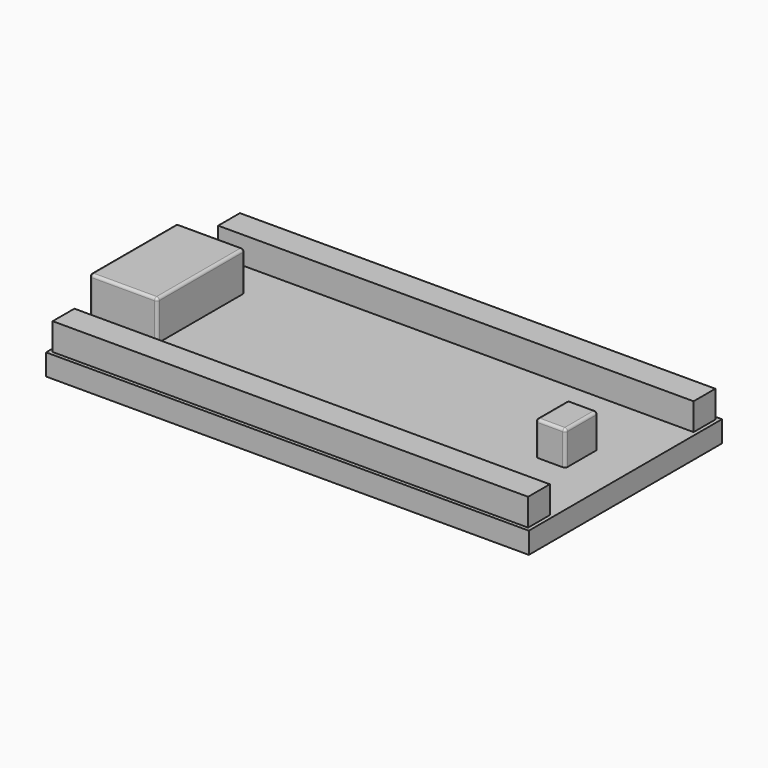
from build123d import *

# Parameters (mm, degrees)
SKETCH_W          = 35.56
SKETCH_H          = 17.78
PAD_DEPTH         = 1.57
SKETCH001_R       = 0.635
POCKET_DEPTH      = 1.571
SKETCH002_W       = 2.2
SKETCH002_H       = 3
PAD001_DEPTH      = 2.5
FILLET_R          = 0.2
FILLET001_R       = 0.2
SKETCH003_W       = 5
SKETCH003_H       = 8.06
PAD002_DEPTH      = 2.9
FILLET002_R       = 0.2
FILLET003_R       = 0.2
SKETCH006_W       = 35.02
SKETCH006_H       = 2
PAD004_DEPTH      = 2
PAD004_DEPTH_BACK = 0.5


with BuildPart() as part:
    # Sketch → Pad (new body)
    with BuildSketch(Plane.XY):
        Rectangle(SKETCH_W, SKETCH_H)
    extrude(amount=PAD_DEPTH)

    # Sketch001 → Pocket (cut, through all)
    with BuildSketch(Plane.XY.offset(1.57)):
        with Locations((-16.51, 7.62)):
            Circle(SKETCH001_R)
        with Locations((-13.970001, 7.621845)):
            Circle(SKETCH001_R)
        with Locations((-11.430001, 7.623691)):
            Circle(SKETCH001_R)
        with Locations((-8.890002, 7.625536)):
            Circle(SKETCH001_R)
        with Locations((-6.350003, 7.627382)):
            Circle(SKETCH001_R)
        with Locations((-3.810003, 7.629227)):
            Circle(SKETCH001_R)
        with Locations((-1.270004, 7.631072)):
            Circle(SKETCH001_R)
        with Locations((1.269995, 7.632918)):
            Circle(SKETCH001_R)
        with Locations((3.809995, 7.634763)):
            Circle(SKETCH001_R)
        with Locations((6.349994, 7.636609)):
            Circle(SKETCH001_R)
        with Locations((8.889993, 7.638454)):
            Circle(SKETCH001_R)
        with Locations((11.429993, 7.640299)):
            Circle(SKETCH001_R)
        with Locations((13.969992, 7.642145)):
            Circle(SKETCH001_R)
        with Locations((16.509991, 7.64399)):
            Circle(SKETCH001_R)
        with Locations((-16.498928, -7.619996)):
            Circle(SKETCH001_R)
        with Locations((-13.958928, -7.618151)):
            Circle(SKETCH001_R)
        with Locations((-11.418929, -7.616305)):
            Circle(SKETCH001_R)
        with Locations((-8.87893, -7.61446)):
            Circle(SKETCH001_R)
        with Locations((-6.33893, -7.612614)):
            Circle(SKETCH001_R)
        with Locations((-3.798931, -7.610769)):
            Circle(SKETCH001_R)
        with Locations((-1.258932, -7.608924)):
            Circle(SKETCH001_R)
        with Locations((1.281068, -7.607078)):
            Circle(SKETCH001_R)
        with Locations((3.821067, -7.605233)):
            Circle(SKETCH001_R)
        with Locations((6.361066, -7.603387)):
            Circle(SKETCH001_R)
        with Locations((8.901066, -7.601542)):
            Circle(SKETCH001_R)
        with Locations((11.441065, -7.599697)):
            Circle(SKETCH001_R)
        with Locations((13.981064, -7.597851)):
            Circle(SKETCH001_R)
        with Locations((16.521064, -7.596006)):
            Circle(SKETCH001_R)
    extrude(amount=-POCKET_DEPTH, mode=Mode.SUBTRACT)

    # Sketch002 → Pad001 (new body)
    with BuildSketch(Plane.XY.offset(1.57)):
        with Locations((13.46, 0)):
            Rectangle(SKETCH002_W, SKETCH002_H)
    extrude(amount=PAD001_DEPTH)

    # Fillet
    fillet_edges = [part.edges().sort_by_distance(p)[0] for p in [
        (14.56, 1.5, 2.82),
        (14.56, -1.5, 2.82),
        (12.36, -1.5, 2.82),
        (12.36, 1.5, 2.82),
    ]]
    fillet(fillet_edges, radius=FILLET_R)

    # Fillet001
    fillet001_edges = [part.edges().sort_by_distance(p)[0] for p in [
        (13.46, 1.5, 4.07),
    ]]
    fillet(fillet001_edges, radius=FILLET001_R)

    # Sketch003 → Pad002 (new body)
    with BuildSketch(Plane.XY.offset(1.57)):
        with Locations((-15.98, 0)):
            Rectangle(SKETCH003_W, SKETCH003_H)
    extrude(amount=PAD002_DEPTH)

    # Fillet002
    fillet002_edges = [part.edges().sort_by_distance(p)[0] for p in [
        (-15.98, -4.03, 4.47),
        (-15.98, 4.03, 4.47),
    ]]
    fillet(fillet002_edges, radius=FILLET002_R)

    # Fillet003
    fillet003_edges = [part.edges().sort_by_distance(p)[0] for p in [
        (-18.48, 0, 4.47),
        (-13.48, 0, 4.47),
    ]]
    fillet(fillet003_edges, radius=FILLET003_R)

    # Sketch006 → Pad004 (new body, two sides)
    with BuildSketch(Plane.XY.offset(1.57)) as pad004_sk:
        with Locations((0, 7.62)):
            Rectangle(SKETCH006_W, SKETCH006_H)
    pad004 = extrude(amount=PAD004_DEPTH) + extrude(pad004_sk.sketch, amount=-PAD004_DEPTH_BACK)

    # Mirrored: Pad004 across Sketch006 H_Axis
    add(pad004.mirror(Plane(origin=(0, 0, 1.57), x_dir=(0, 0, 1), z_dir=(0, 1, 0))))


solid = part.part
